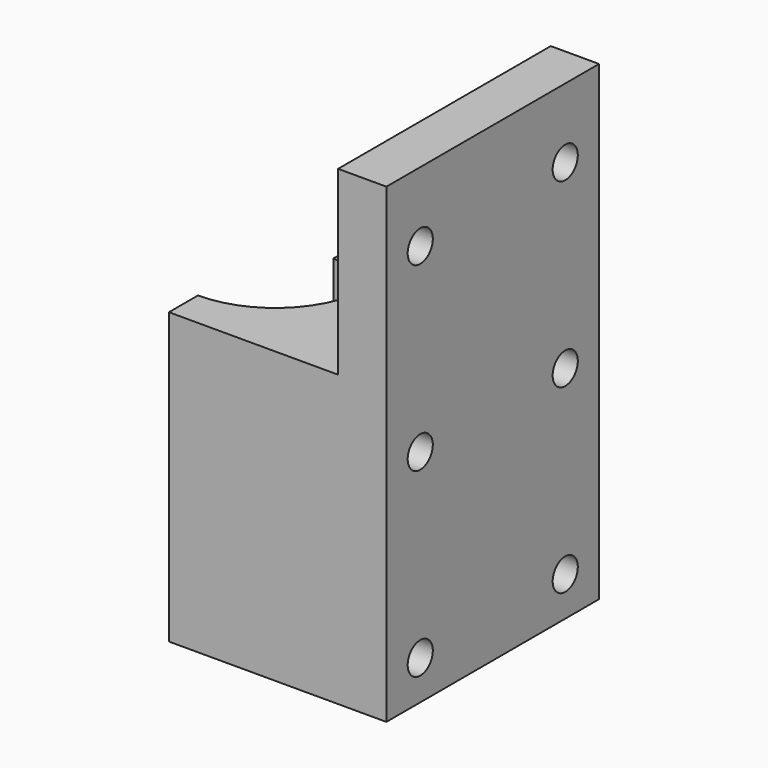
from build123d import *

# Parameters (mm, degrees)
F2_DEPTH  = 24
F1_W      = 3
F1_H      = 22
F3_DEPTH  = 24
F1_W_2    = 4
F4_DEPTH  = 39
F5_DEPTH  = 21
F6_DEPTH  = 15.5
F7_DEPTH  = 12
F8_DEPTH  = 4
F9_R      = 1.3
F10_DEPTH = 18.001


with BuildPart() as f2:
    # F1 (on Top) → F2 (new body)
    with BuildSketch(Plane.XY):
        with BuildLine():
            Line((11, 11), (0, 11))
            Line((0, 11), (0, 8))
            ThreePointArc((0, 8), (5.6568542495, 5.6568542495), (8, 0))
            ThreePointArc((8, 0), (5.6568542495, -5.6568542495), (0, -8))
            Line((0, -8), (0, -11))
            Line((0, -11), (11, -11))
            Line((11, -11), (11, 11))
        make_face()
    extrude(amount=F2_DEPTH)

    # F1 (on Top) → F3 (join)
    with BuildSketch(Plane.XY):
        with Locations((12.5, 0)):
            Rectangle(F1_W, F1_H)
    extrude(amount=F3_DEPTH)

    # F1 (on Top) → F4 (join)
    with BuildSketch(Plane.XY):
        with Locations((16, 0)):
            Rectangle(F1_W_2, F1_H)
    extrude(amount=F4_DEPTH)

    # F1 (on Top) → F5 (join)
    with BuildSketch(Plane.XY):
        with BuildLine():
            ThreePointArc((8, 0), (5.6568542495, 5.6568542495), (0, 8))
            Line((0, 8), (0, 6))
            ThreePointArc((0, 6), (4.2426406871, 4.2426406871), (6, 0))
            ThreePointArc((6, 0), (4.2426406871, -4.2426406871), (0, -6))
            Line((0, -6), (0, -8))
            ThreePointArc((0, -8), (5.6568542495, -5.6568542495), (8, 0))
        make_face()
    extrude(amount=F5_DEPTH)

    # F1 (on Top) → F6 (cut)
    with BuildSketch(Plane.XY):
        with BuildLine():
            ThreePointArc((8, 0), (5.6568542495, 5.6568542495), (0, 8))
            Line((0, 8), (0, 6))
            ThreePointArc((0, 6), (4.2426406871, 4.2426406871), (6, 0))
            ThreePointArc((6, 0), (4.2426406871, -4.2426406871), (0, -6))
            Line((0, -6), (0, -8))
            ThreePointArc((0, -8), (5.6568542495, -5.6568542495), (8, 0))
        make_face()
        with BuildLine():
            Line((0, 6), (0, 8))
            ThreePointArc((0, 8), (-8, 0), (0, -8))
            Line((0, -8), (0, -6))
            ThreePointArc((0, -6), (-6, 0), (0, 6))
        make_face()
    extrude(amount=F6_DEPTH, mode=Mode.SUBTRACT)

    # F1 (on Top) → F7 (join)
    with BuildSketch(Plane.XY):
        with BuildLine():
            ThreePointArc((8, 0), (5.6568542495, 5.6568542495), (0, 8))
            Line((0, 8), (0, 6))
            ThreePointArc((0, 6), (4.2426406871, 4.2426406871), (6, 0))
            ThreePointArc((6, 0), (4.2426406871, -4.2426406871), (0, -6))
            Line((0, -6), (0, -8))
            ThreePointArc((0, -8), (5.6568542495, -5.6568542495), (8, 0))
        make_face()
        with BuildLine():
            ThreePointArc((6, 0), (4.2426406871, 4.2426406871), (0, 6))
            Line((0, 6), (0, 2.25))
            ThreePointArc((0, 2.25), (1.5909902577, 1.5909902577), (2.25, 0))
            ThreePointArc((2.25, 0), (1.5909902577, -1.5909902577), (0, -2.25))
            Line((0, -2.25), (0, -6))
            ThreePointArc((0, -6), (4.2426406871, -4.2426406871), (6, 0))
        make_face()
        with BuildLine():
            ThreePointArc((2.25, 0), (1.5909902577, 1.5909902577), (0, 2.25))
            Line((0, 2.25), (0, 1))
            ThreePointArc((0, 1), (0.7071067812, 0.7071067812), (1, 0))
            ThreePointArc((1, 0), (0.7071067812, -0.7071067812), (0, -1))
            Line((0, -1), (0, -2.25))
            ThreePointArc((0, -2.25), (1.5909902577, -1.5909902577), (2.25, 0))
        make_face()
    extrude(amount=F7_DEPTH)

    # F1 (on Top) → F8 (cut)
    with BuildSketch(Plane.XY):
        with BuildLine():
            ThreePointArc((2.25, 0), (1.5909902577, 1.5909902577), (0, 2.25))
            Line((0, 2.25), (0, 1))
            ThreePointArc((0, 1), (0.7071067812, 0.7071067812), (1, 0))
            ThreePointArc((1, 0), (0.7071067812, -0.7071067812), (0, -1))
            Line((0, -1), (0, -2.25))
            ThreePointArc((0, -2.25), (1.5909902577, -1.5909902577), (2.25, 0))
        make_face()
        with BuildLine():
            Line((0, 1), (0, 2.25))
            ThreePointArc((0, 2.25), (-2.25, 0), (0, -2.25))
            Line((0, -2.25), (0, -1))
            ThreePointArc((0, -1), (-1, 0), (0, 1))
        make_face()
    extrude(amount=F8_DEPTH, mode=Mode.SUBTRACT)

    # F9 (on face) → F10 (cut, through all)
    with BuildSketch(Plane(origin=(0, 0, 0), x_dir=(0, -1, 0), z_dir=(-1, 0, 0))):
        with Locations((-7.5, 18.25)):
            Circle(F9_R)
        with Locations((7.5, 18.25)):
            Circle(F9_R)
        with Locations((7.5, 3.25)):
            Circle(F9_R)
        with Locations((-7.5, 3.25)):
            Circle(F9_R)
        with Locations((-7.5, 33.25)):
            Circle(F9_R)
        with Locations((7.5, 33.25)):
            Circle(F9_R)
    extrude(amount=-F10_DEPTH, mode=Mode.SUBTRACT)


solid = f2.part
